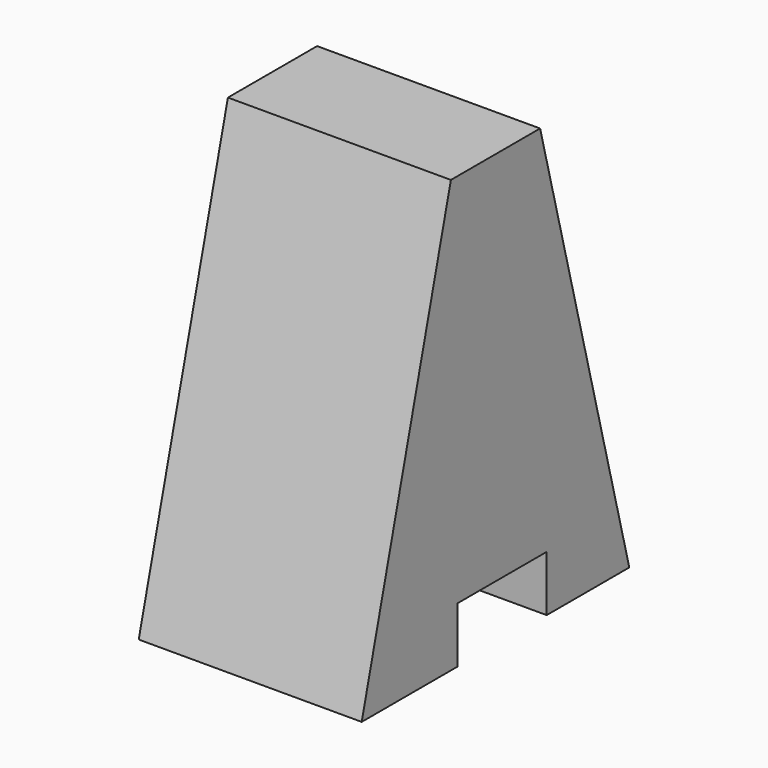
from build123d import *

# Parameters (mm, degrees)
F1_DEPTH = 25.4
F2_W     = 12.7
F2_H     = 6.35
F3_DEPTH = 25.4


with BuildPart() as f1:
    # F0 (on Right) → F1 (new body)
    with BuildSketch(Plane.YZ):
        Polygon((-38.1, 0), (0, 0), (-12.7, 49.186888), (-25.4, 49.186888), align=None)
    extrude(amount=F1_DEPTH)

    # F2 (on face) → F3 (cut)
    with BuildSketch(Plane(origin=(0, 0, 0), x_dir=(0, -1, 0), z_dir=(-1, 0, 0))):
        with Locations((18.110265, 3.175)):
            Rectangle(F2_W, F2_H)
    extrude(amount=-F3_DEPTH, mode=Mode.SUBTRACT)


solid = f1.part
